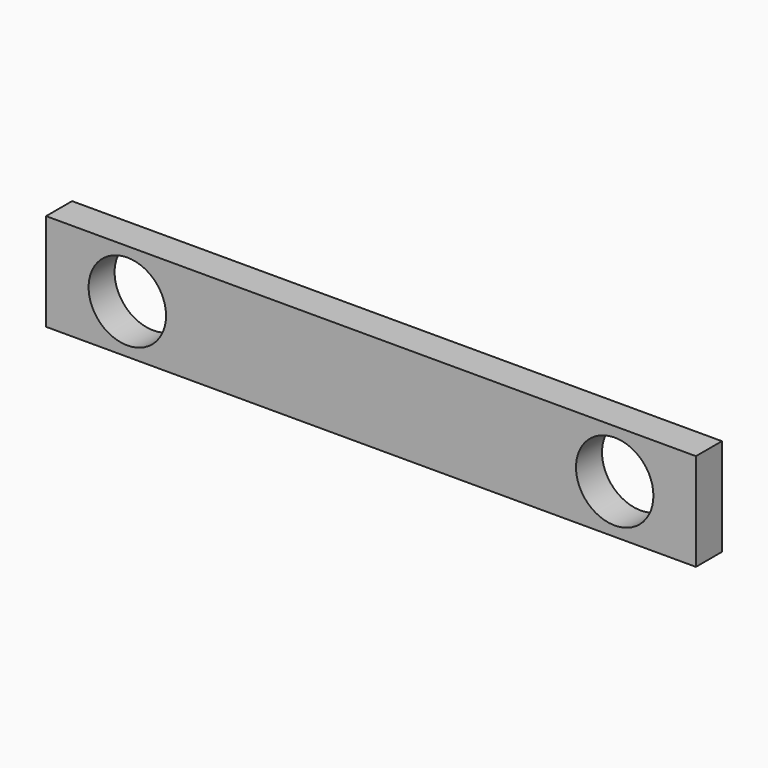
from build123d import *

# Parameters (mm, degrees)
F0_W     = 508
F0_H     = 76.2
F0_R     = 30.2641
F1_DEPTH = 12.7


with BuildPart() as f1:
    # F0 (on Front) → F1 (new body, symmetric)
    with BuildSketch(Plane.XZ):
        with Locations((410.966302, 0)):
            Rectangle(F0_W, F0_H)
        with Locations((220.466302, 0)):
            Circle(F0_R, mode=Mode.SUBTRACT)
        with Locations((601.466302, 0)):
            Circle(F0_R, mode=Mode.SUBTRACT)
    extrude(amount=F1_DEPTH, both=True)


solid = f1.part
